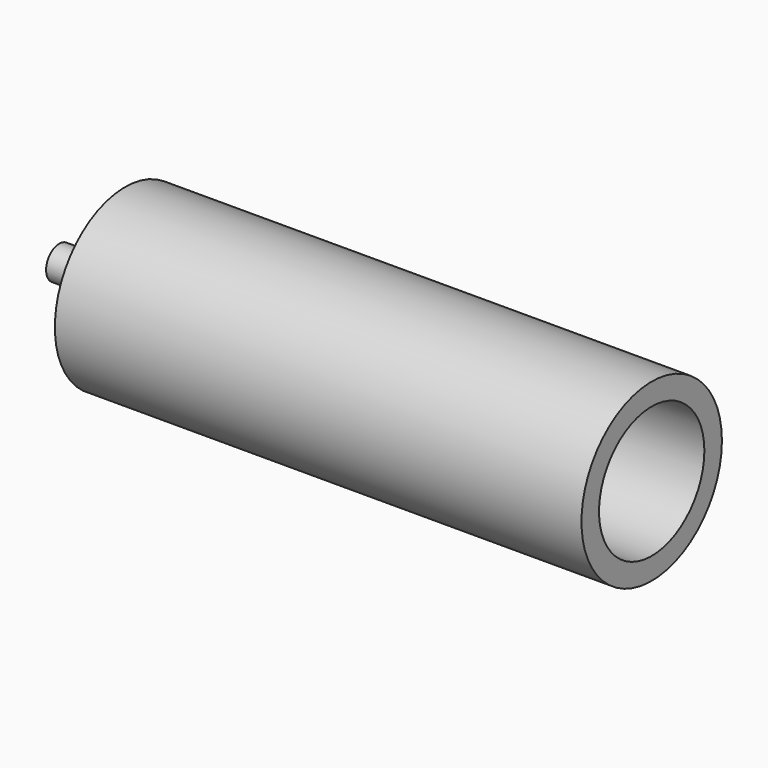
from build123d import *

# Parameters (mm, degrees)
F0_R     = 50.8
F1_DEPTH = 304.8
F2_R     = 38.1
F3_DEPTH = 279.4
F4_R     = 9.525
F5_DEPTH = 38.1
F6_R     = 6.35
F7_DEPTH = 91.948


with BuildPart() as f1:
    # F0 (on Right) → F1 (new body)
    with BuildSketch(Plane.YZ):
        Circle(F0_R)
    extrude(amount=F1_DEPTH)

    # F2 (on face) → F3 (cut)
    with BuildSketch(Plane.YZ.offset(304.8)):
        Circle(F2_R)
    extrude(amount=-F3_DEPTH, mode=Mode.SUBTRACT)

    # F4 (on face) → F5 (join)
    with BuildSketch(Plane(origin=(0, 0, 0), x_dir=(0, -1, 0), z_dir=(-1, 0, 0))):
        Circle(F4_R)
    extrude(amount=F5_DEPTH)

    # F6 (on face) → F7 (cut)
    with BuildSketch(Plane(origin=(-38.1, 0, 0), x_dir=(0, -1, 0), z_dir=(-1, 0, 0))):
        Circle(F6_R)
    extrude(amount=-F7_DEPTH, mode=Mode.SUBTRACT)


solid = f1.part
